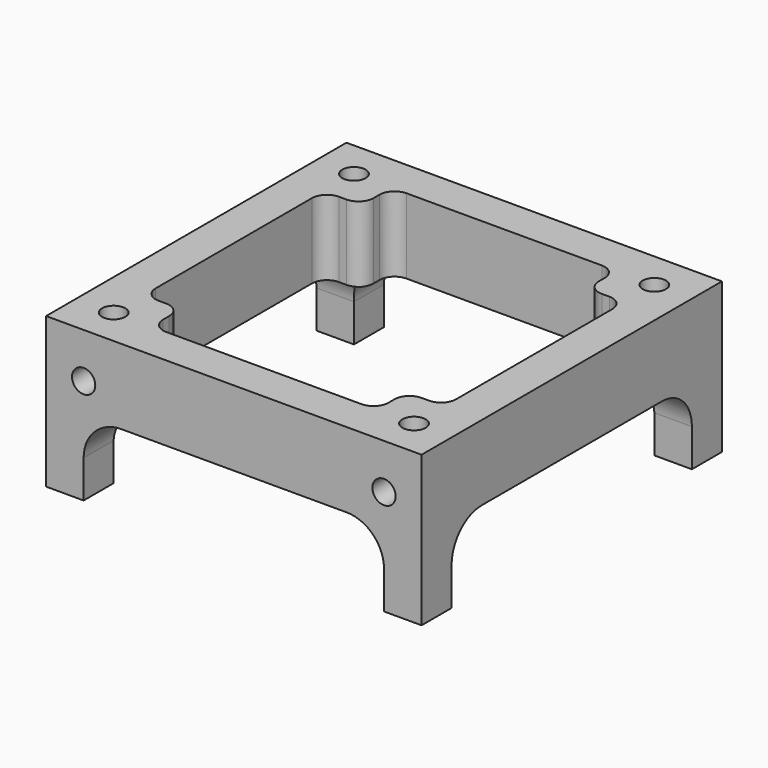
from build123d import *

# Parameters (mm, degrees)
SKETCH093_W     = 50
SKETCH093_H     = 50
PAD016_DEPTH    = 20
POCKET078_DEPTH = 20.001
POCKET079_DEPTH = 50.001
POCKET080_DEPTH = 50.001
SKETCH097_R     = 1.55
POCKET081_DEPTH = 5
SKETCH098_R     = 1.55
POCKET082_DEPTH = 3


with BuildPart() as part:
    # Sketch093 → Pad016 (new body)
    with BuildSketch(Plane.XY):
        Rectangle(SKETCH093_W, SKETCH093_H)
    extrude(amount=PAD016_DEPTH)

    # Sketch094 (on Face6 of Pad016) → Pocket078 (cut, through all)
    with BuildSketch(Plane.XY.offset(20)):
        with BuildLine():
            Line((-18, 15), (-17, 15))
            ThreePointArc((-17, 15), (-15.585786, 15.585786), (-15, 17))
            Line((-15, 17), (-15, 18))
            ThreePointArc((-13, 20), (-14.414214, 19.414214), (-15, 18))
            Line((-13, 20), (13, 20))
            ThreePointArc((15, 18), (14.414214, 19.414214), (13, 20))
            Line((15, 18), (15, 17))
            ThreePointArc((15, 17), (15.585786, 15.585786), (17, 15))
            Line((17, 15), (18, 15))
            ThreePointArc((20, 13), (19.414214, 14.414214), (18, 15))
            Line((20, 13), (20, -13))
            ThreePointArc((18, -15), (19.414214, -14.414214), (20, -13))
            Line((18, -15), (17, -15))
            ThreePointArc((17, -15), (15.585786, -15.585786), (15, -17))
            Line((15, -17), (15, -18))
            ThreePointArc((13, -20), (14.414214, -19.414214), (15, -18))
            Line((13, -20), (-13, -20))
            ThreePointArc((-15, -18), (-14.414214, -19.414214), (-13, -20))
            Line((-15, -18), (-15, -17))
            ThreePointArc((-15, -17), (-15.585786, -15.585786), (-17, -15))
            Line((-17, -15), (-18, -15))
            ThreePointArc((-20, -13), (-19.414214, -14.414214), (-18, -15))
            Line((-20, -13), (-20, 13))
            ThreePointArc((-18, 15), (-19.414214, 14.414214), (-20, 13))
        make_face()
    extrude(amount=-POCKET078_DEPTH, mode=Mode.SUBTRACT)

    # Sketch095 (on Face3 of Pocket078) → Pocket079 (cut, through all)
    with BuildSketch(Plane.YZ.offset(25)):
        with BuildLine():
            Line((-15, 10), (15, 10))
            ThreePointArc((20, 5), (18.535534, 8.535534), (15, 10))
            Line((20, 5), (20, 0))
            Line((20, 0), (-20, 0))
            Line((-20, 0), (-20, 5))
            ThreePointArc((-15, 10), (-18.535534, 8.535534), (-20, 5))
        make_face()
    extrude(amount=-POCKET079_DEPTH, mode=Mode.SUBTRACT)

    # Sketch096 (on Face6 of Pocket078) → Pocket080 (cut, through all)
    with BuildSketch(Plane.XZ.offset(25)):
        with BuildLine():
            Line((-15, 10), (15, 10))
            ThreePointArc((20, 5), (18.535534, 8.535534), (15, 10))
            Line((20, 5), (20, 0))
            Line((20, 0), (-20, 0))
            Line((-20, 0), (-20, 5))
            ThreePointArc((-15, 10), (-18.535534, 8.535534), (-20, 5))
        make_face()
    extrude(amount=-POCKET080_DEPTH, mode=Mode.SUBTRACT)

    # Sketch097 → Pocket081 (cut)
    with BuildSketch(Plane.XY.offset(20)):
        with Locations((-20, 20)):
            Circle(SKETCH097_R)
        with Locations((20, 20)):
            Circle(SKETCH097_R)
        with Locations((20, -20)):
            Circle(SKETCH097_R)
        with Locations((-20, -20)):
            Circle(SKETCH097_R)
    extrude(amount=-POCKET081_DEPTH, mode=Mode.SUBTRACT)

    # Sketch098 (on Face27 of Pocket081) → Pocket082 (cut)
    with BuildSketch(Plane.XZ.offset(25)):
        with Locations((-20, 14)):
            Circle(SKETCH098_R)
        with Locations((20, 14)):
            Circle(SKETCH098_R)
    extrude(amount=-POCKET082_DEPTH, mode=Mode.SUBTRACT)


with BuildPart() as part_1:
    # Body017 placement: moved
    add(part.part.moved(Location((85, 25, 0))))


solid = part_1.part
